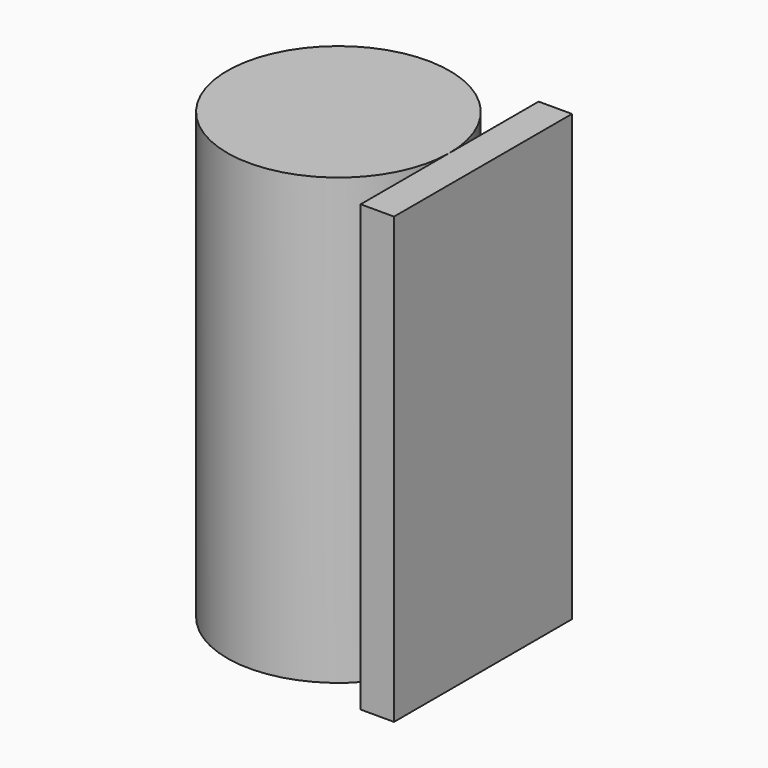
from build123d import *

# Parameters (mm, degrees)
F0_R     = 12.7
F1_DEPTH = 50.8
F3_W     = 25.4
F3_H     = 50.8
F4_DEPTH = 3.81


with BuildPart() as f1:
    # F0 (on Top) → F1 (new body)
    with BuildSketch(Plane.XY):
        Circle(F0_R)
    extrude(amount=F1_DEPTH)

    # F3 (on offset) → F4 (join)
    with BuildSketch(Plane.YZ.offset(12.7)):
        with Locations((0, 25.4)):
            Rectangle(F3_W, F3_H)
    extrude(amount=F4_DEPTH)


solid = f1.part
